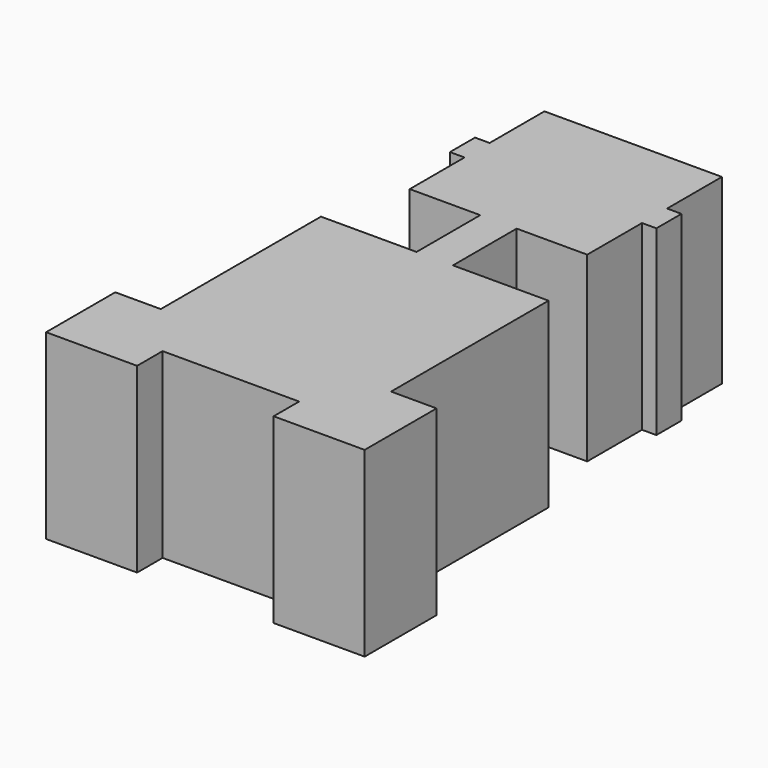
from build123d import *

# Parameters (mm, degrees)
F1_DEPTH = 5.08


with BuildPart() as f1:
    # F0 (on Top) → F1 (new body, symmetric)
    with BuildSketch(Plane.XY):
        Polygon((-29.640044, -7.968424), (-22.020044, -7.968424), (-22.020044, -9.746424), (-16.940044, -9.746424), (-16.940044, -4.729924), (-19.480044, -4.729924), (-19.480044, 6.255576), (-24.814044, 6.255576), (-24.814044, 10.700577), (-20.877043, 10.700577), (-20.877043, 14.523888), (-20.075854, 14.523888), (-20.075854, 16.275269), (-20.877043, 16.275269), (-20.877043, 20.098579), (-30.783044, 20.098579), (-30.783044, 16.275269), (-31.59697, 16.275269), (-31.59697, 14.523888), (-30.783044, 14.523888), (-30.783044, 10.700577), (-26.846044, 10.700577), (-26.846044, 6.255576), (-32.180044, 6.255576), (-32.180044, -4.920424), (-34.720044, -4.920424), (-34.720044, -9.746424), (-29.640044, -9.746424), align=None)
    extrude(amount=F1_DEPTH, both=True)


solid = f1.part
